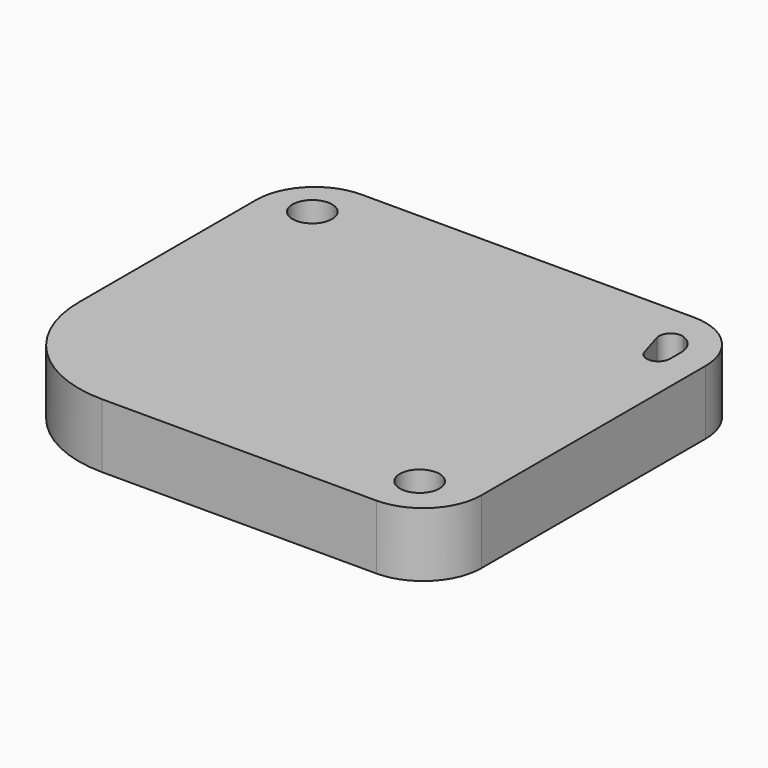
from build123d import *

# Parameters (mm, degrees)
SKETCH002_W  = 38.5
SKETCH002_H  = 34
SKETCH002_R  = 1.7
PAD002_DEPTH = 5.5
FILLET005_R  = 2
FILLET006_R  = 1
FILLET007_R  = 5
FILLET008_R  = 10
FILLET009_R  = 5


with BuildPart() as part:
    # Sketch002 → Pad002 (new body)
    with BuildSketch(Plane.XY):
        with Locations((-0.25, 0)):
            Rectangle(SKETCH002_W, SKETCH002_H)
        with Locations((-15.5, 13)):
            Circle(SKETCH002_R, mode=Mode.SUBTRACT)
        with Locations((14.5, -13)):
            Circle(SKETCH002_R, mode=Mode.SUBTRACT)
        Polygon((13.5, 14.5), (16.5, 14.5), (16.5, 4.5), align=None, mode=Mode.SUBTRACT)
    extrude(amount=PAD002_DEPTH)

    # Fillet005
    fillet005_edges = [part.edges().sort_by_distance(p)[0] for p in [
        (16.5, 14.5, 2.75),
    ]]
    fillet(fillet005_edges, radius=FILLET005_R)

    # Fillet006
    fillet006_edges = [part.edges().sort_by_distance(p)[0] for p in [
        (16.5, 4.5, 2.75),
        (13.5, 14.5, 2.75),
    ]]
    fillet(fillet006_edges, radius=FILLET006_R)

    # Fillet007
    fillet007_edges = [part.edges().sort_by_distance(p)[0] for p in [
        (19, 17, 2.75),
    ]]
    fillet(fillet007_edges, radius=FILLET007_R)

    # Fillet008
    fillet008_edges = [part.edges().sort_by_distance(p)[0] for p in [
        (-19.5, -17, 2.75),
    ]]
    fillet(fillet008_edges, radius=FILLET008_R)

    # Fillet009
    fillet009_edges = [part.edges().sort_by_distance(p)[0] for p in [
        (-19.5, 17, 2.75),
        (19, -17, 2.75),
    ]]
    fillet(fillet009_edges, radius=FILLET009_R)


solid = part.part
